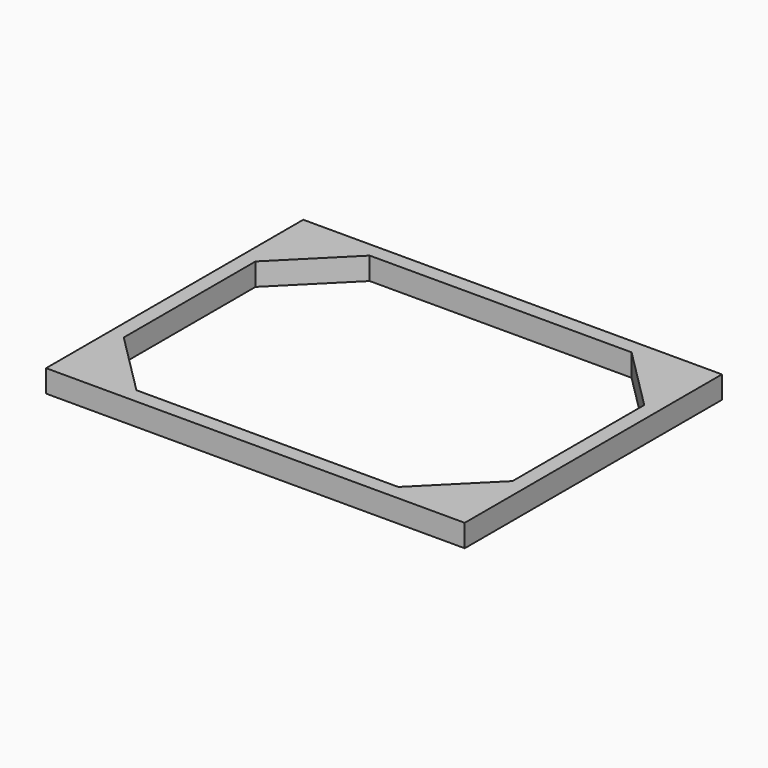
from build123d import *

# Parameters (mm, degrees)
F0_W     = 355.6
F0_H     = 273.05
F1_DEPTH = 19.05


with BuildPart() as f1:
    # F0 (on Top) → F1 (new body)
    with BuildSketch(Plane.XY):
        with Locations((177.8, 136.525)):
            Rectangle(F0_W, F0_H)
        Polygon((12.7, 206.468463), (66.581537, 260.35), (289.018463, 260.35), (342.9, 206.468463), (342.9, 66.581537), (289.018463, 12.7), (66.581537, 12.7), (12.7, 66.581537), align=None, mode=Mode.SUBTRACT)
    extrude(amount=F1_DEPTH)


solid = f1.part
